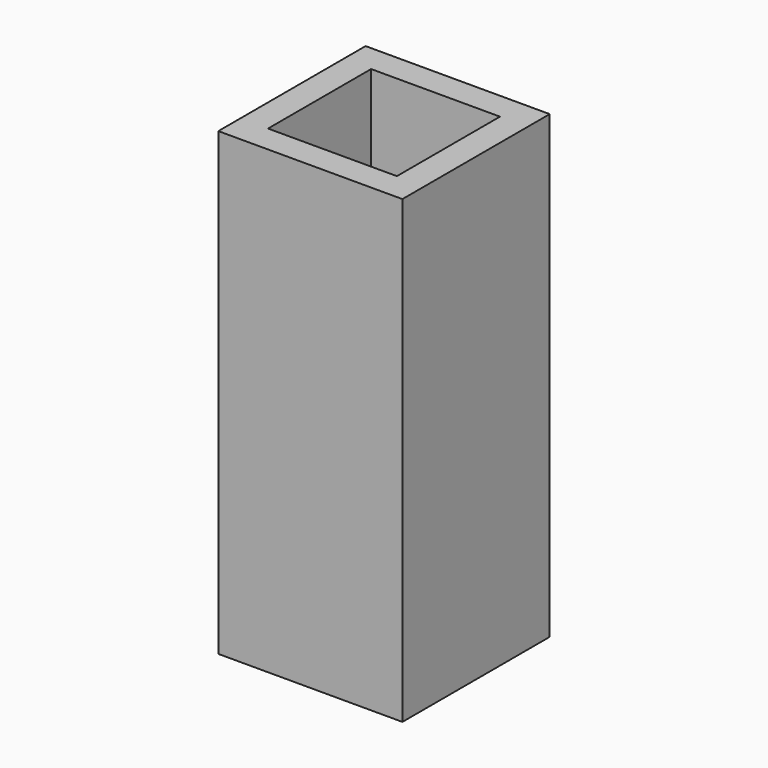
from build123d import *

# Parameters (mm, degrees)
BOX095_W     = 14
BOX095_H     = 14
BOX095_DEPTH = 50
BOX094_W     = 20
BOX094_H     = 20
BOX094_DEPTH = 50


with BuildPart() as cube063:
    # Box095 → Box095 (new body)
    with BuildSketch(Plane(origin=(253, -22, -50), x_dir=(1, 0, 0), z_dir=(0, 0, 1))):
        with Locations((7, 7)):
            Rectangle(BOX095_W, BOX095_H)
    extrude(amount=BOX095_DEPTH)


with BuildPart() as cut114:
    # Box094 → Box094 (new body)
    with BuildSketch(Plane(origin=(250, -25, -50), x_dir=(1, 0, 0), z_dir=(0, 0, 1))):
        with Locations((10, 10)):
            Rectangle(BOX094_W, BOX094_H)
    extrude(amount=BOX094_DEPTH)

    # Cut114: cut Cube063
    add(cube063.part, mode=Mode.SUBTRACT)


with BuildPart() as cut114_1:
    # Cut114 placement: moved
    add(cut114.part.moved(Location((0, 0, -3))))


solid = cut114_1.part
